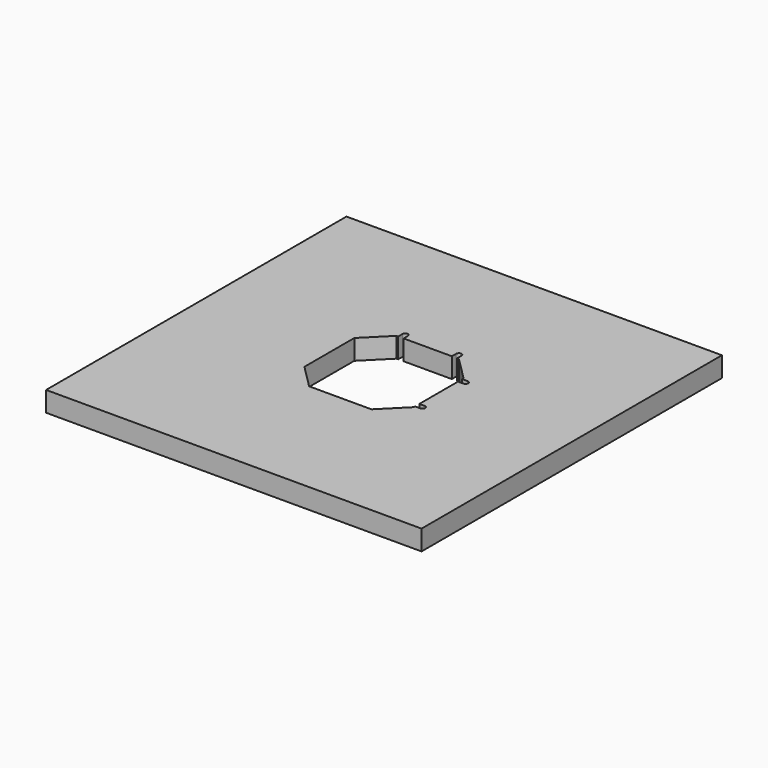
from build123d import *

# Parameters (mm, degrees)
F0_W     = 280
F0_H     = 280
F1_DEPTH = 15
F4_DEPTH = 15.001


with BuildPart() as f1:
    # F0 (on Top) → F1 (new body)
    with BuildSketch(Plane.XY):
        Rectangle(F0_W, F0_H)
    extrude(amount=F1_DEPTH)

    # F3 (on Top) → F4 (cut, through all)
    with BuildSketch(Plane.XY):
        with BuildLine():
            Line((-40.75, 23.25), (-40.75, 0))
            Line((-40.75, 0), (-40.75, -23.25))
            Line((-40.75, -23.25), (-23.25, -40.75))
            Line((-23.25, -40.75), (0, -40.75))
            Line((0, -40.75), (23.25, -40.75))
            Line((23.25, -40.75), (40.75, -23.25))
            Line((40.75, -23.25), (40.75, -22))
            Line((40.75, -22), (44.75, -22))
            ThreePointArc((44.75, -22), (46.75, -20), (44.75, -18))
            Line((44.75, -18), (40.75, -18))
            Line((40.75, -18), (40.75, 0))
            Line((40.75, 0), (40.75, 18))
            Line((40.75, 18), (44.75, 18))
            ThreePointArc((44.75, 18), (46.75, 20), (44.75, 22))
            Line((44.75, 22), (40.75, 22))
            Line((40.75, 22), (40.75, 23.25))
            Line((40.75, 23.25), (23.25, 40.75))
            Line((23.25, 40.75), (22, 40.75))
            Line((22, 40.75), (22, 44.75))
            ThreePointArc((22, 44.75), (20, 46.75), (18, 44.75))
            Line((18, 44.75), (18, 40.75))
            Line((18, 40.75), (0, 40.75))
            Line((0, 40.75), (-18, 40.75))
            Line((-18, 40.75), (-18, 44.75))
            ThreePointArc((-18, 44.75), (-20, 46.75), (-22, 44.75))
            Line((-22, 44.75), (-22, 40.75))
            Line((-22, 40.75), (-23.25, 40.75))
            Line((-23.25, 40.75), (-40.75, 23.25))
        make_face()
    extrude(amount=F4_DEPTH, mode=Mode.SUBTRACT)


solid = f1.part
